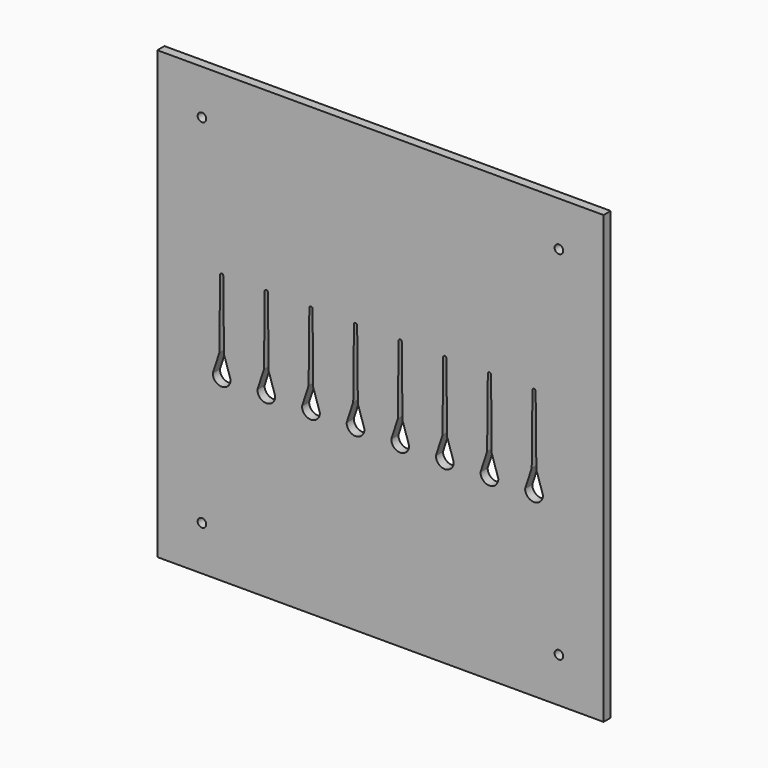
from build123d import *

# Parameters (mm, degrees)
F0_W     = 250
F0_H     = 250
F1_DEPTH = 5
F2_D     = 4.8


with BuildPart() as f1:
    # F0 (on Front) → F1 (new body)
    with BuildSketch(Plane.XZ):
        with Locations((125, -125)):
            Rectangle(F0_W, F0_H)
        with BuildLine():
            ThreePointArc((41.0619131156, -149.2449066583), (36.0619131156, -154.2449066583), (31.0619131156, -149.2449066583))
            Line((31.0619131156, -149.2449066583), (34.7619131156, -137.8727704287))
            Line((34.7619131156, -137.8727704287), (35.1619131156, -99.2449066583))
            ThreePointArc((35.1619131156, -99.2449066583), (36.0619131156, -98.3449066583), (36.9619131156, -99.2449066583))
            Line((36.9619131156, -99.2449066583), (37.3619131156, -137.8727704287))
            Line((37.3619131156, -137.8727704287), (41.0619131156, -149.2449066583))
        make_face(mode=Mode.SUBTRACT)
        with BuildLine():
            Line((62.3619131156, -137.8727704287), (66.0619131156, -149.2449066583))
            ThreePointArc((66.0619131156, -149.2449066583), (61.0619131156, -154.2449066583), (56.0619131156, -149.2449066583))
            Line((56.0619131156, -149.2449066583), (59.7619131156, -137.8727704287))
            Line((59.7619131156, -137.8727704287), (60.1619131156, -99.2449066583))
            ThreePointArc((60.1619131156, -99.2449066583), (61.0619131156, -98.3449066583), (61.9619131156, -99.2449066583))
            Line((61.9619131156, -99.2449066583), (62.3619131156, -137.8727704287))
        make_face(mode=Mode.SUBTRACT)
        with BuildLine():
            Line((87.3619131156, -137.8727704287), (91.0619131156, -149.2449066583))
            ThreePointArc((91.0619131156, -149.2449066583), (86.0619131156, -154.2449066583), (81.0619131156, -149.2449066583))
            Line((81.0619131156, -149.2449066583), (84.7619131156, -137.8727704287))
            Line((84.7619131156, -137.8727704287), (85.1619131156, -99.2449066583))
            ThreePointArc((85.1619131156, -99.2449066583), (86.0619131156, -98.3449066583), (86.9619131156, -99.2449066583))
            Line((86.9619131156, -99.2449066583), (87.3619131156, -137.8727704287))
        make_face(mode=Mode.SUBTRACT)
        with BuildLine():
            Line((112.3619131156, -137.8727704287), (116.0619131156, -149.2449066583))
            ThreePointArc((116.0619131156, -149.2449066583), (111.0619131156, -154.2449066583), (106.0619131156, -149.2449066583))
            Line((106.0619131156, -149.2449066583), (109.7619131156, -137.8727704287))
            Line((109.7619131156, -137.8727704287), (110.1619131156, -99.2449066583))
            ThreePointArc((110.1619131156, -99.2449066583), (111.0619131156, -98.3449066583), (111.9619131156, -99.2449066583))
            Line((111.9619131156, -99.2449066583), (112.3619131156, -137.8727704287))
        make_face(mode=Mode.SUBTRACT)
        with BuildLine():
            Line((137.3619131156, -137.8727704287), (141.0619131156, -149.2449066583))
            ThreePointArc((141.0619131156, -149.2449066583), (136.0619131156, -154.2449066583), (131.0619131156, -149.2449066583))
            Line((131.0619131156, -149.2449066583), (134.7619131156, -137.8727704287))
            Line((134.7619131156, -137.8727704287), (135.1619131156, -99.2449066583))
            ThreePointArc((135.1619131156, -99.2449066583), (136.0619131156, -98.3449066583), (136.9619131156, -99.2449066583))
            Line((136.9619131156, -99.2449066583), (137.3619131156, -137.8727704287))
        make_face(mode=Mode.SUBTRACT)
        with BuildLine():
            Line((162.3619131156, -137.8727704287), (166.0619131156, -149.2449066583))
            ThreePointArc((166.0619131156, -149.2449066583), (161.0619131156, -154.2449066583), (156.0619131156, -149.2449066583))
            Line((156.0619131156, -149.2449066583), (159.7619131156, -137.8727704287))
            Line((159.7619131156, -137.8727704287), (160.1619131156, -99.2449066583))
            ThreePointArc((160.1619131156, -99.2449066583), (161.0619131156, -98.3449066583), (161.9619131156, -99.2449066583))
            Line((161.9619131156, -99.2449066583), (162.3619131156, -137.8727704287))
        make_face(mode=Mode.SUBTRACT)
        with BuildLine():
            Line((187.3619131156, -137.8727704287), (191.0619131156, -149.2449066583))
            ThreePointArc((191.0619131156, -149.2449066583), (186.0619131156, -154.2449066583), (181.0619131156, -149.2449066583))
            Line((181.0619131156, -149.2449066583), (184.7619131156, -137.8727704287))
            Line((184.7619131156, -137.8727704287), (185.1619131156, -99.2449066583))
            ThreePointArc((185.1619131156, -99.2449066583), (186.0619131156, -98.3449066583), (186.9619131156, -99.2449066583))
            Line((186.9619131156, -99.2449066583), (187.3619131156, -137.8727704287))
        make_face(mode=Mode.SUBTRACT)
        with BuildLine():
            Line((212.3619131156, -137.8727704287), (216.0619131156, -149.2449066583))
            ThreePointArc((216.0619131156, -149.2449066583), (211.0619131156, -154.2449066583), (206.0619131156, -149.2449066583))
            Line((206.0619131156, -149.2449066583), (209.7619131156, -137.8727704287))
            Line((209.7619131156, -137.8727704287), (210.1619131156, -99.2449066583))
            ThreePointArc((210.1619131156, -99.2449066583), (211.0619131156, -98.3449066583), (211.9619131156, -99.2449066583))
            Line((211.9619131156, -99.2449066583), (212.3619131156, -137.8727704287))
        make_face(mode=Mode.SUBTRACT)
    extrude(amount=F1_DEPTH)

    # F2 (through all)
    with Locations(Plane(origin=(0, 0, 0), x_dir=(1, 0, 0), z_dir=(0, 1, 0))):
        with Locations((25, 25), (225, 25), (225, 225), (25, 225)):
            Hole(F2_D / 2)


solid = f1.part
